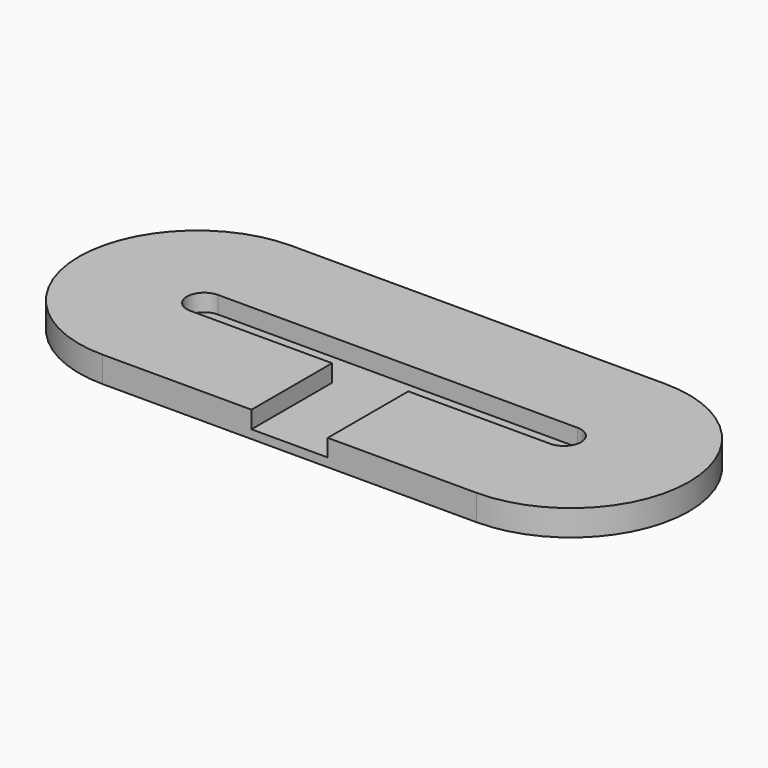
from build123d import *

# Parameters (mm, degrees)
PAD_DEPTH       = 9
POCKET_DEPTH    = 6
SKETCH002_W     = 26.5
SKETCH002_H     = 35
POCKET001_DEPTH = 6


with BuildPart() as part:
    # Sketch → Pad (new body)
    with BuildSketch(Plane.XY):
        with BuildLine():
            ThreePointArc((-65, 41), (-106, 0), (-65, -41))
            Line((-65, -41), (65, -41))
            ThreePointArc((65, -41), (106, 0), (65, 41))
            Line((-65, 41), (65, 41))
        make_face()
    extrude(amount=PAD_DEPTH)

    # Sketch001 (on Face6 of Pad) → Pocket (cut)
    with BuildSketch(Plane.XY.offset(9)):
        with BuildLine():
            ThreePointArc((-62.5, 6), (-68.5, 0), (-62.5, -6))
            Line((-62.5, -6), (62.5, -6))
            ThreePointArc((62.5, -6), (68.5, 0), (62.5, 6))
            Line((-62.5, 6), (62.5, 6))
        make_face()
    extrude(amount=-POCKET_DEPTH, mode=Mode.SUBTRACT)

    # Sketch002 (on Face5 of Pocket) → Pocket001 (cut)
    with BuildSketch(Plane.XY.offset(9)):
        with Locations((0, -23.5)):
            Rectangle(SKETCH002_W, SKETCH002_H)
    extrude(amount=-POCKET001_DEPTH, mode=Mode.SUBTRACT)


solid = part.part
